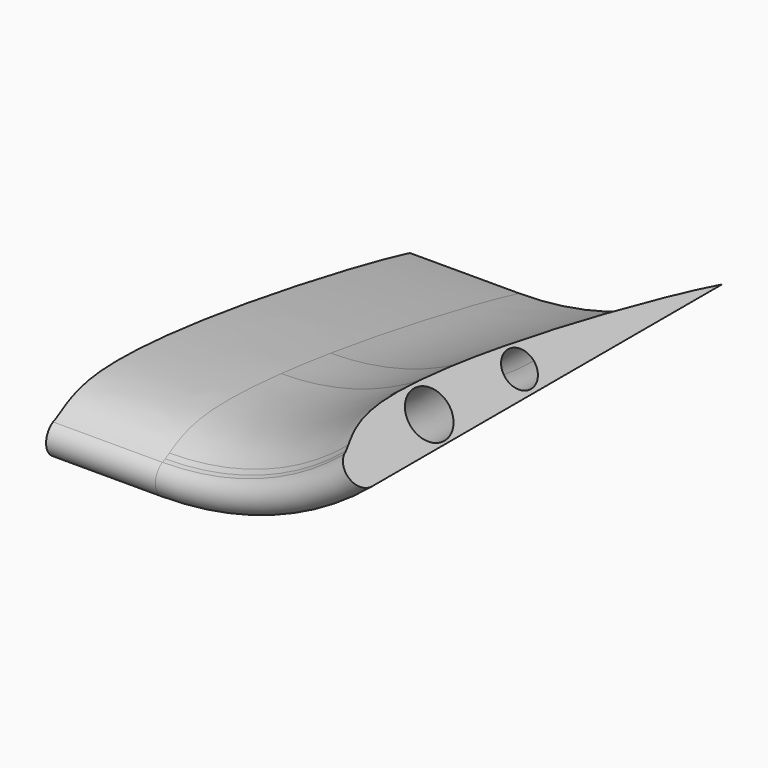
from build123d import *

# Parameters (mm, degrees)
F1_ANGLE    = 40
F1_FACE_R   = 5.4232355478
F1_FACE_R_2 = 4.1043861686
F2_DEPTH    = 25
F3_T        = -0.5


with BuildPart() as f1:
    # F0 (on Right) → F1 (revolve)
    with BuildSketch(Plane.YZ):
        with BuildLine():
            Line((27.8498129549, -11.6827003189), (27.8498129549, -12.5490202029))
            Line((27.8498129549, -12.5490202029), (81.7200219635, -12.5490202029))
            add(Edge.make_bspline(
                [(27.8498129549, -2.6838467792), (49.7990350726, -5.6396345082), (73.5672767065, -10.438052301), (81.7200219635, -12.5490202029)],
                knots=[0.5626736041, 0.5626736041, 0.5626736041, 0.5626736041, 1, 1, 1, 1], degree=3))
            Line((27.8498129549, -2.6838467792), (27.8498129549, -3.4739279817))
            ThreePointArc((27.8498129549, -3.4739279817), (30.7520522474, -4.6760748579), (31.9541991235, -7.5783141503))
            ThreePointArc((31.9541991235, -7.5783141503), (30.7520522474, -10.4805534427), (27.8498129549, -11.6827003189))
        make_face()
        with BuildLine():
            Line((13.6468330496, -6.5490202029), (13.6468330496, -12.5490202029))
            Line((13.6468330496, -12.5490202029), (17.3165918889, -12.5490202029))
            Line((17.3165918889, -12.5490202029), (27.8498129549, -12.5490202029))
            Line((27.8498129549, -12.5490202029), (27.8498129549, -11.6827003189))
            ThreePointArc((27.8498129549, -11.6827003189), (24.8445154779, -10.3736983629), (23.7561625155, -7.2816461519))
            Line((23.7561625155, -7.2816461519), (13.6468330496, -6.5490202029))
        make_face()
        with BuildLine():
            Line((13.6468330496, -1.0330964021), (13.6468330496, -6.5490202029))
            Line((13.6468330496, -6.5490202029), (23.7561625155, -7.2816461519))
            ThreePointArc((23.7561625155, -7.2816461519), (25.0544287424, -4.5730166733), (27.8498129549, -3.4739279817))
            Line((27.8498129549, -3.4739279817), (27.8498129549, -2.6838467792))
            add(Edge.make_bspline(
                [(13.6468330496, -1.0330964021), (18.1624904314, -1.4585647484), (22.9610315643, -2.0254999838), (27.8498129549, -2.6838467792)],
                knots=[0.4652672753, 0.4652672753, 0.4652672753, 0.4652672753, 0.5626736041, 0.5626736041, 0.5626736041, 0.5626736041], degree=3))
        make_face()
        with BuildLine():
            Line((8.2913914596, -6.5490202029), (13.6468330496, -6.5490202029))
            Line((13.6468330496, -6.5490202029), (13.6468330496, -1.0330964021))
            add(Edge.make_bspline(
                [(-8.2799780365, -0.5490202029), (-3.0526213965, 0.0944379113), (4.7477892151, -0.1946223674), (13.6468330496, -1.0330964021)],
                knots=[0.2733078071, 0.2733078071, 0.2733078071, 0.2733078071, 0.4652672753, 0.4652672753, 0.4652672753, 0.4652672753], degree=3))
            Line((-8.2799780365, -0.5490202029), (-8.2799780365, -2.5490202029))
            ThreePointArc((-8.2799780365, -2.5490202029), (-5.4515509118, -3.7205930782), (-4.2799780365, -6.5490202029))
            Line((-4.2799780365, -6.5490202029), (-2.555079636, -6.5490202029))
            ThreePointArc((-2.555079636, -6.5490202029), (2.8681559118, -1.1257846551), (8.2913914596, -6.5490202029))
        make_face()
        with BuildLine():
            Line((-8.2799780365, -10.5490202029), (-8.2799780365, -12.5490202029))
            Line((-8.2799780365, -12.5490202029), (13.6468330496, -12.5490202029))
            Line((13.6468330496, -12.5490202029), (13.6468330496, -6.5490202029))
            Line((13.6468330496, -6.5490202029), (8.2913914596, -6.5490202029))
            ThreePointArc((8.2913914596, -6.5490202029), (2.8681559118, -11.9722557507), (-2.555079636, -6.5490202029))
            Line((-2.555079636, -6.5490202029), (-4.2799780365, -6.5490202029))
            ThreePointArc((-4.2799780365, -6.5490202029), (-5.4515509118, -9.3774473277), (-8.2799780365, -10.5490202029))
        make_face()
        with BuildLine():
            ThreePointArc((-14.2799780365, -8.5490202029), (-15.4515509118, -11.3774473277), (-18.2799780365, -12.5490202029))
            Line((-18.2799780365, -12.5490202029), (-8.2799780365, -12.5490202029))
            Line((-8.2799780365, -12.5490202029), (-8.2799780365, -10.5490202029))
            ThreePointArc((-8.2799780365, -10.5490202029), (-12.2799780365, -6.5490202029), (-8.2799780365, -2.5490202029))
            Line((-8.2799780365, -2.5490202029), (-8.2799780365, -0.5490202029))
            add(Edge.make_bspline(
                [(-18.2799780365, -4.0483865936), (-16.3347005245, -2.873910851), (-13.6805304931, -1.2137977451), (-8.2799780365, -0.5490202029)],
                knots=[0.0749882263, 0.0749882263, 0.0749882263, 0.0749882263, 0.2733078071, 0.2733078071, 0.2733078071, 0.2733078071], degree=3))
            Line((-18.2799780365, -4.0483865936), (-18.2799780365, -4.5490202029))
            ThreePointArc((-18.2799780365, -4.5490202029), (-15.4515509118, -5.7205930782), (-14.2799780365, -8.5490202029))
        make_face()
        with BuildLine():
            Line((-18.2799780365, -8.5490202029), (-18.2799780365, -12.5490202029))
            ThreePointArc((-18.2799780365, -12.5490202029), (-15.4515509118, -11.3774473277), (-14.2799780365, -8.5490202029))
            ThreePointArc((-14.2799780365, -8.5490202029), (-15.4515509118, -5.7205930782), (-18.2799780365, -4.5490202029))
            Line((-18.2799780365, -4.5490202029), (-18.2799780365, -8.5490202029))
        make_face()
        with BuildLine():
            ThreePointArc((-20.2927022426, -5.0922961366), (-22.1417714195, -9.5913981897), (-18.2799780365, -12.5490202029))
            Line((-18.2799780365, -12.5490202029), (-18.2799780365, -8.5490202029))
            Line((-18.2799780365, -8.5490202029), (-18.2799780365, -4.5490202029))
            ThreePointArc((-18.2799780365, -4.5490202029), (-18.8802604944, -4.5943190801), (-19.4669468915, -4.7291897175))
            add(Edge.make_bspline(
                [(-20.2927022426, -5.0922961366), (-20.0186945882, -4.9963440411), (-19.7462842347, -4.8732432418), (-19.4669468915, -4.7291897175)],
                knots=[0, 0, 0, 0, 0.0319560574, 0.0319560574, 0.0319560574, 0.0319560574], degree=3))
        make_face()
        with BuildLine():
            ThreePointArc((-19.4669468915, -4.7291897175), (-18.8802604944, -4.5943190801), (-18.2799780365, -4.5490202029))
            Line((-18.2799780365, -4.5490202029), (-18.2799780365, -4.0483865936))
            add(Edge.make_bspline(
                [(-19.4669468915, -4.7291897175), (-19.0907899835, -4.5352066013), (-18.7020720633, -4.3032289965), (-18.2799780365, -4.0483865936)],
                knots=[0.0319560574, 0.0319560574, 0.0319560574, 0.0319560574, 0.0749882263, 0.0749882263, 0.0749882263, 0.0749882263], degree=3))
        make_face()
        with BuildLine():
            ThreePointArc((-8.2799780365, -2.5490202029), (-12.2799780365, -6.5490202029), (-8.2799780365, -10.5490202029))
            Line((-8.2799780365, -10.5490202029), (-8.2799780365, -6.5490202029))
            Line((-8.2799780365, -6.5490202029), (-8.2799780365, -2.5490202029))
        make_face()
        with BuildLine():
            Line((-8.2799780365, -6.5490202029), (-8.2799780365, -10.5490202029))
            ThreePointArc((-8.2799780365, -10.5490202029), (-5.4515509118, -9.3774473277), (-4.2799780365, -6.5490202029))
            Line((-4.2799780365, -6.5490202029), (-8.2799780365, -6.5490202029))
        make_face()
        with BuildLine():
            Line((-8.2799780365, -2.5490202029), (-8.2799780365, -6.5490202029))
            Line((-8.2799780365, -6.5490202029), (-4.2799780365, -6.5490202029))
            ThreePointArc((-4.2799780365, -6.5490202029), (-5.4515509118, -3.7205930782), (-8.2799780365, -2.5490202029))
        make_face()
    revolve(axis=Axis((0, -7.8002028164, 59.5752070229), (0, -1, 0)), revolution_arc=F1_ANGLE)

    # F1_face (on face) → F2 (join)
    with BuildSketch(Plane(origin=(0, 19.7039316935, -7.8205712455), x_dir=(0, -1, 0), z_dir=(-1, 0, 0))):
        with BuildLine():
            add(Edge.make_bspline(
                [(-62.01609027, -4.7284489575), (-48.4689173024, -1.220716728), (29.5061349396, 13.8175317575), (37.6531523766, 3.5489162949), (39.996633936, 2.7282751088)],
                knots=[0.5626736041, 0.5626736041, 0.5626736041, 0.5626736041, 1.289365797, 1.5626736041, 1.5626736041, 1.5626736041, 1.5626736041], degree=3))
            Line((-62.01609027, -4.7284489575), (37.98390973, -4.7284489575))
            ThreePointArc((37.98390973, -4.7284489575), (41.8457031129, -1.7708269443), (39.996633936, 2.7282751088))
        make_face()
        with Locations((16.8357757816, 1.2715510425)):
            Circle(F1_FACE_R, mode=Mode.SUBTRACT)
        with Locations((-8.1458812615, 0.2422570952)):
            Circle(F1_FACE_R_2, mode=Mode.SUBTRACT)
    extrude(amount=F2_DEPTH)

    # F3
    f3_openings = [f1.faces().sort_by_distance(p)[0] for p in [
        (-25, 19.703932, -7.820571),
    ]]
    offset(amount=F3_T, openings=f3_openings)


solid = f1.part
